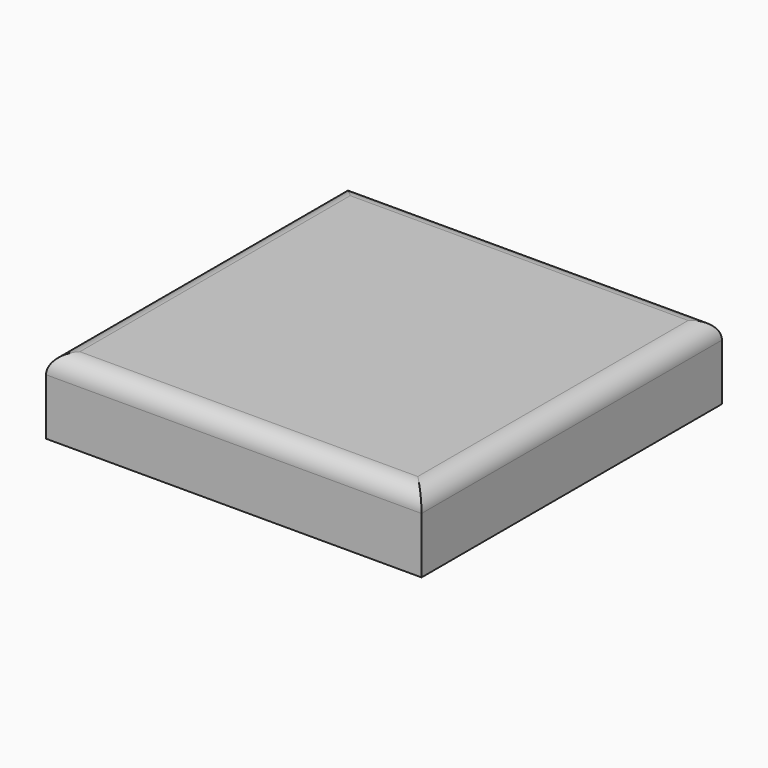
from build123d import *

# Parameters (mm, degrees)
SKETCH_W      = 10
SKETCH_H      = 10
EXTRUDE_DEPTH = 2
FILLET_R      = 0.5


with BuildPart() as part:
    # Sketch → Extrude (new body)
    with BuildSketch(Plane.XY):
        with Locations((-4.999808, -5)):
            Rectangle(SKETCH_W, SKETCH_H)
    extrude(amount=EXTRUDE_DEPTH)

    # Fillet
    fillet_edges = [part.edges().sort_by_distance(p)[0] for p in [
        (-4.999808, -10, 2),
        (0.000192, -5, 2),
        (-4.999808, 0, 2),
        (-9.999808, -5, 2),
    ]]
    fillet(fillet_edges, radius=FILLET_R)


solid = part.part
